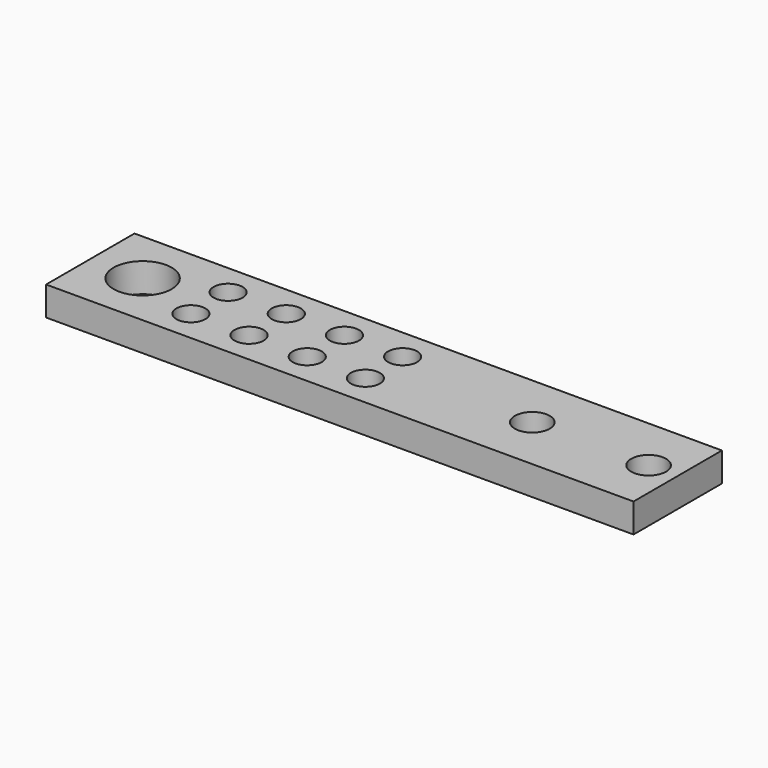
from build123d import *

# Parameters (mm, degrees)
F0_W     = 101
F0_H     = 19
F1_DEPTH = 5
F3_D     = 6
F5_D     = 10
F7_D     = 5


with BuildPart() as f1:
    # F0 (on Top) → F1 (new body)
    with BuildSketch(Plane.XY):
        Rectangle(F0_W, F0_H)
    extrude(amount=F1_DEPTH)

    # F3 (through all)
    with Locations(Plane.XY.offset(5)):
        with Locations((25.5, 0), (45.5, 0)):
            Hole(F3_D / 2)

    # F5 (through all)
    with Locations(Plane.XY.offset(5)):
        with Locations((-41.5, 0)):
            Hole(F5_D / 2)

    # F7 (through all)
    with Locations(Plane.XY.offset(5)):
        with Locations((-30, 4), (-20, 4), (-10, 4), (0, 4), (0, -4), (-10, -4), (-20, -4), (-30, -4)):
            Hole(F7_D / 2)


solid = f1.part
